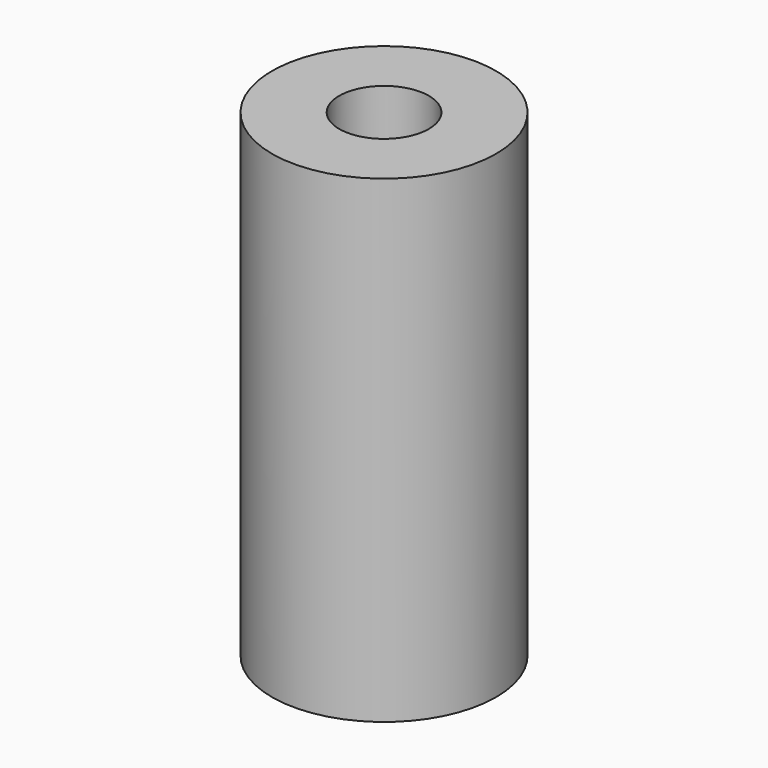
from build123d import *

# Parameters (mm, degrees)
CYLINDER1975_R     = 3
CYLINDER1975_DEPTH = 20
CYLINDER1976_R     = 2.6
CYLINDER1976_DEPTH = 19
CYLINDER1974_R     = 7.5
CYLINDER1974_DEPTH = 32


with BuildPart() as obj1:
    # Cylinder1975 → Cylinder1975 (new body)
    with BuildSketch(Plane.XY.offset(69)):
        Circle(CYLINDER1975_R)
    extrude(amount=CYLINDER1975_DEPTH)


with BuildPart() as obj2:
    # Cylinder1976 → Cylinder1976 (new body)
    with BuildSketch(Plane.XY.offset(47)):
        Circle(CYLINDER1976_R)
    extrude(amount=CYLINDER1976_DEPTH)


with BuildPart() as cut737:
    # Cylinder1974 → Cylinder1974 (new body)
    with BuildSketch(Plane.XY.offset(50.65)):
        Circle(CYLINDER1974_R)
    extrude(amount=CYLINDER1974_DEPTH)

    # Cut738: cut obj2
    add(obj2.part, mode=Mode.SUBTRACT)

    # Cut737: cut obj1
    add(obj1.part, mode=Mode.SUBTRACT)


solid = cut737.part
